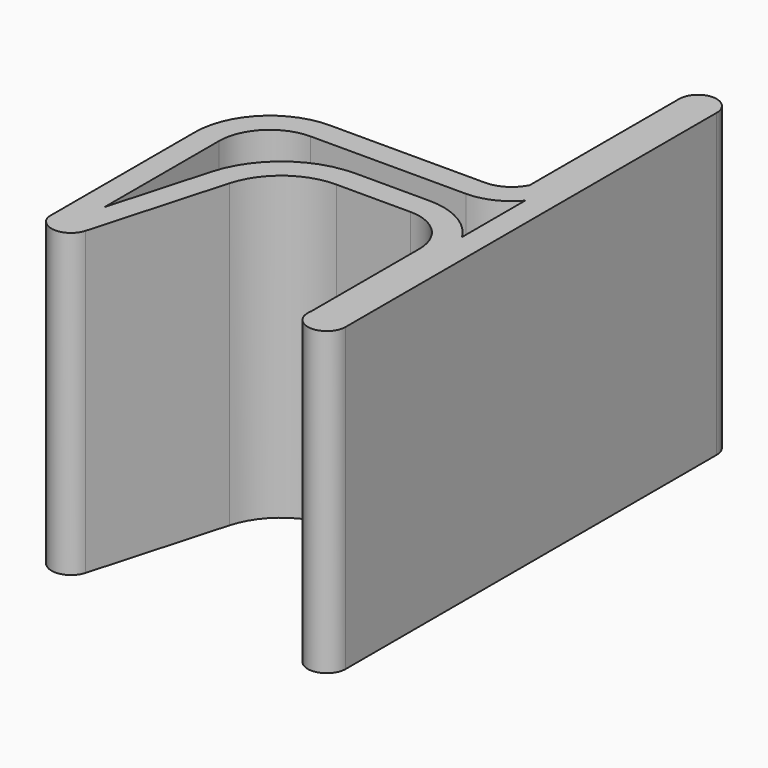
from build123d import *

# Parameters (mm, degrees)
F1_DEPTH = 80.3


with BuildPart() as f1:
    # F0 (on Top) → F1 (new body)
    with BuildSketch(Plane.XY):
        with BuildLine():
            Line((-36.770043, -7.666995), (-36.770043, -56.578011))
            ThreePointArc((-36.770043, -56.578011), (-31.770043, -60.362871), (-26.770043, -56.578011))
            Line((-26.770043, -56.578011), (-16.770043, -21.122071))
            ThreePointArc((-16.770043, -21.122071), (-10.141759, -11.410082), (1.004819, -7.666995))
            Line((1.004819, -7.666995), (20.765205, -7.666995))
            ThreePointArc((20.765205, -7.666995), (29.126088, -11.130187), (32.58928, -19.49107))
            Line((32.58928, -19.49107), (32.58928, -55.573208))
            ThreePointArc((32.58928, -55.573208), (37.033867, -61.603188), (42.58928, -56.578011))
            Line((42.58928, -56.578011), (42.58928, 67.063222))
            ThreePointArc((42.58928, 67.063222), (37.58928, 72.063222), (32.58928, 67.063222))
            Line((32.58928, 67.063222), (32.58928, 17.243077))
            ThreePointArc((32.58928, 17.243077), (29.2899, 13.658686), (24.602008, 12.333005))
            Line((24.602008, 12.333005), (-16.770043, 12.333005))
            ThreePointArc((-16.770043, 12.333005), (-30.912178, 6.47514), (-36.770043, -7.666995))
        make_face()
        with BuildLine():
            Line((-16.770043, 5.933005), (24.602008, 5.933005))
            ThreePointArc((24.602008, 5.933005), (30.969103, 7.315657), (36.18928, 11.214551))
            Line((36.18928, 11.214551), (36.18928, -9.784641))
            ThreePointArc((36.18928, -9.784641), (29.575034, -3.537896), (20.765205, -1.266996))
            Line((20.765205, -1.266996), (1.004819, -1.266996))
            ThreePointArc((1.004819, -1.266996), (-14.00449, -6.30721), (-22.929738, -19.384789))
            Line((-22.929738, -19.384789), (-30.370044, -45.765093))
            Line((-30.370044, -45.765093), (-30.370044, -7.666995))
            ThreePointArc((-30.370044, -7.666995), (-26.386696, 1.949657), (-16.770043, 5.933005))
        make_face(mode=Mode.SUBTRACT)
    extrude(amount=F1_DEPTH)


solid = f1.part
